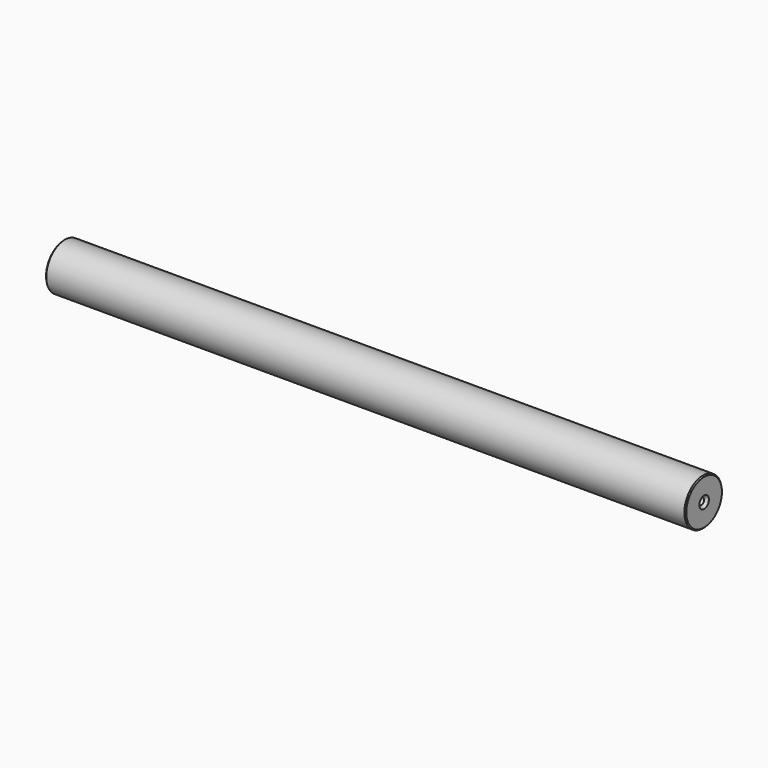
from build123d import *

# Parameters (mm, degrees)
F0_R     = 11.1125
F1_DEPTH = 304.8
F2_R     = 1.5875
F3_DEPTH = 3.175
F4_R     = 1.5875
F5_DEPTH = 5.715
F6_SIZE  = 0.508
F7_SIZE  = 1.27


with BuildPart() as f1:
    # F0 (on Right) → F1 (new body)
    with BuildSketch(Plane.YZ):
        Circle(F0_R)
    extrude(amount=F1_DEPTH)

    # F2 (on face) → F3 (cut)
    with BuildSketch(Plane.YZ.offset(304.8)):
        Circle(F2_R)
    extrude(amount=-F3_DEPTH, mode=Mode.SUBTRACT)

    # F4 (on face) → F5 (cut)
    with BuildSketch(Plane(origin=(0, 0, 0), x_dir=(0, -1, 0), z_dir=(-1, 0, 0))):
        Circle(F4_R)
    extrude(amount=-F5_DEPTH, mode=Mode.SUBTRACT)

    # F6
    f6_edges = [f1.edges().sort_by_distance(p)[0] for p in [
        (0, -11.1125, 0),
        (304.8, -11.1125, 0),
    ]]
    chamfer(f6_edges, length=F6_SIZE)

    # F7
    f7_edges = [f1.edges().sort_by_distance(p)[0] for p in [
        (304.8, -1.5875, 0),
        (5.715, 1.5875, 0),
    ]]
    chamfer(f7_edges, length=F7_SIZE)


solid = f1.part
